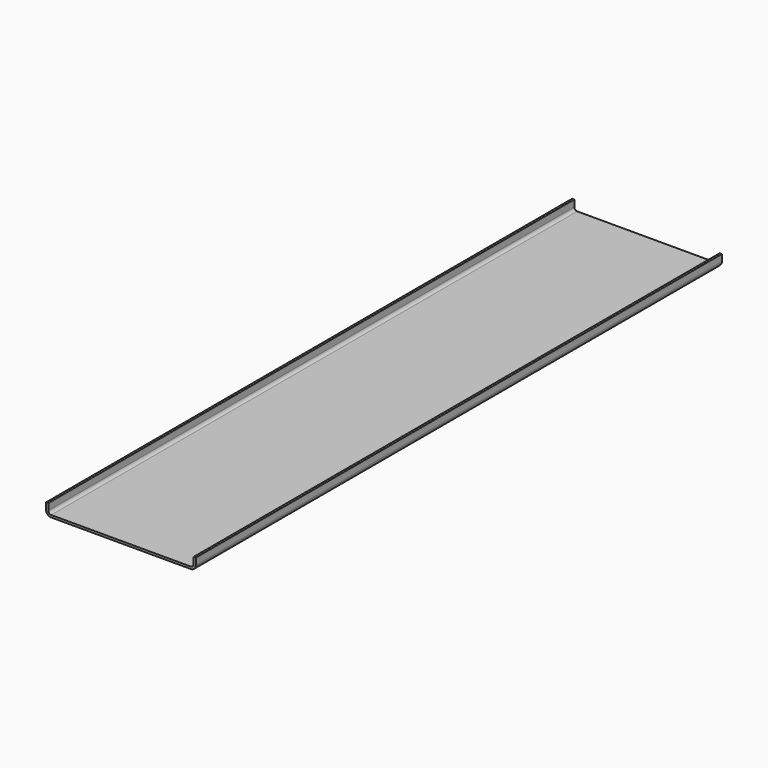
from build123d import *

# Parameters (mm, degrees)
F1_DEPTH = 450
F2_R     = 4
F3_R     = 7


with BuildPart() as f1:
    # F0 (on Front) → F1 (new body, symmetric)
    with BuildSketch(Plane.XZ):
        Polygon((-102.5, 0), (-102.5, -16), (102.5, -16), (102.5, 0), (99.5, 0), (99.5, -13), (-99.5, -13), (-99.5, 0), align=None)
    extrude(amount=F1_DEPTH, both=True)

    # F2
    f2_edges = [f1.edges().sort_by_distance(p)[0] for p in [
        (-99.5, 0, -13),
        (99.5, 0, -13),
    ]]
    fillet(f2_edges, radius=F2_R)

    # F3
    f3_edges = [f1.edges().sort_by_distance(p)[0] for p in [
        (-102.5, 0, -16),
        (102.5, 0, -16),
    ]]
    fillet(f3_edges, radius=F3_R)


solid = f1.part
